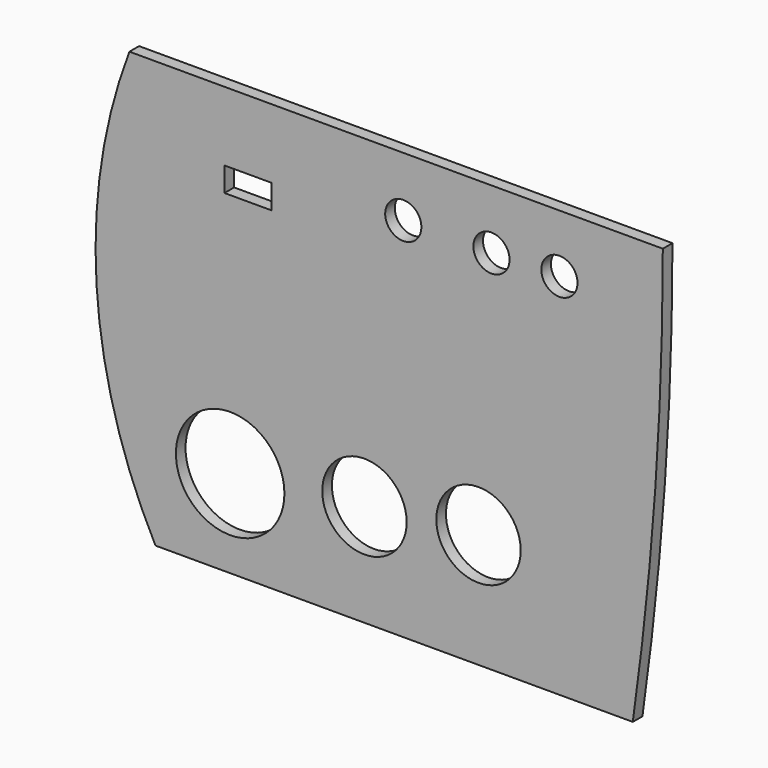
from build123d import *

# Parameters (mm, degrees)
F0_R     = 22.5
F0_R_2   = 17.5
F0_W     = 19.454152
F0_H     = 10.062493
F0_R_3   = 7.5
F1_DEPTH = 5


with BuildPart() as f1:
    # F0 (on Front) → F1 (new body)
    with BuildSketch(Plane.XZ):
        with BuildLine():
            Line((-92.498694, -88.391484), (105.413623, -88.391484))
            ThreePointArc((105.413623, -88.391484), (114.741048, -0.218636), (117.855312, 88.391484))
            Line((117.855312, 88.391484), (-103.311009, 88.391484))
            ThreePointArc((-103.311009, 88.391484), (-116.943778, -1.16445), (-92.498694, -88.391484))
        make_face()
        with Locations((-61.532475, -52.015223)):
            Circle(F0_R, mode=Mode.SUBTRACT)
        with Locations((-5.853384, -45.977734)):
            Circle(F0_R_2, mode=Mode.SUBTRACT)
        with Locations((41.440301, -40.946487)):
            Circle(F0_R_2, mode=Mode.SUBTRACT)
        with Locations((-54.153323, 54.64714)):
            Rectangle(F0_W, F0_H, mode=Mode.SUBTRACT)
        with Locations((10.246594, 63.703366)):
            Circle(F0_R_3, mode=Mode.SUBTRACT)
        with Locations((46.806965, 63.703366)):
            Circle(F0_R_3, mode=Mode.SUBTRACT)
        with Locations((74.981928, 64.374208)):
            Circle(F0_R_3, mode=Mode.SUBTRACT)
    extrude(amount=F1_DEPTH)


solid = f1.part
